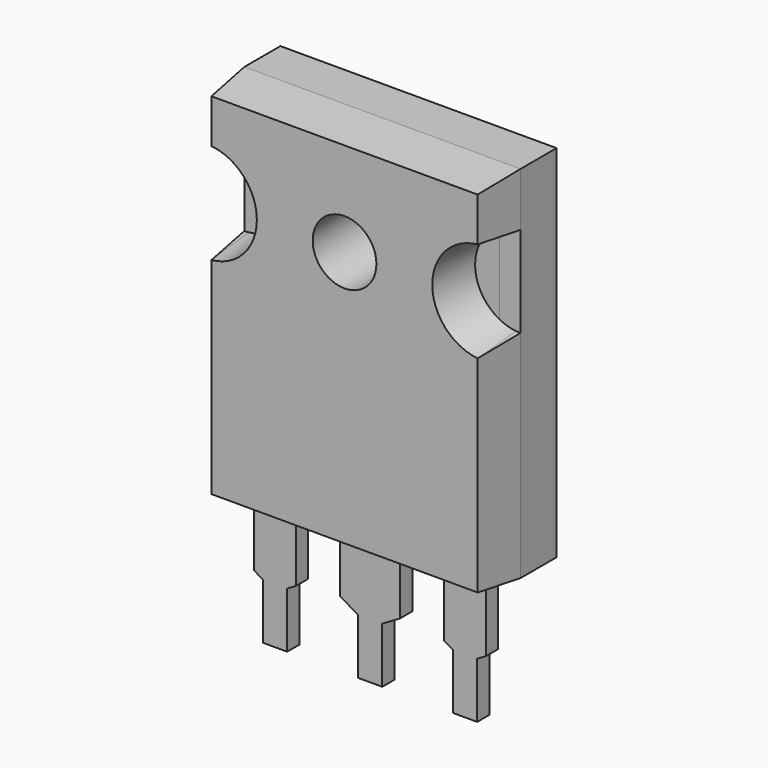
from build123d import *

# Parameters (mm, degrees)
F0_W      = 15.87
F0_H      = 20.7
F1_DEPTH  = 2.82
F2_SIZE2  = 0.2858835199
F2_SIZE   = 2.72
F3_DEPTH  = 2.49
F4_R      = 1.83
F5_DEPTH  = 5.31
F6_W      = 0.6149379784
F6_H      = 5.79
F7_DEPTH  = 2.72
F7_TAPER  = 6
F8_R      = 3.695
F9_DEPTH  = 2.59
F14_DEPTH = 0.445


with BuildPart() as f1:
    # F0 (on Front) → F1 (new body)
    with BuildSketch(Plane.XZ):
        Rectangle(F0_W, F0_H)
    extrude(amount=F1_DEPTH)

    # F2
    f2_edges = [f1.edges().sort_by_distance(p)[0] for p in [
        (0, -2.82, -10.35),
        (-7.935, -2.82, 0),
        (7.935, -2.82, 0),
        (0, -2.82, 10.35),
    ]]
    chamfer(f2_edges, length=F2_SIZE, length2=F2_SIZE2)

    # F0 (on Front) → F3 (join)
    with BuildSketch(Plane.XZ):
        Rectangle(F0_W, F0_H)
    extrude(amount=-F3_DEPTH)

    # F4 (on face) → F5 (cut)
    with BuildSketch(Plane.XZ.offset(2.82)):
        with Locations((0, 4.66)):
            Circle(F4_R)
    extrude(amount=-F5_DEPTH, mode=Mode.SUBTRACT)

    # F6 (on face) → F7 (cut)
    with BuildSketch(Plane.XZ.offset(2.82)):
        with BuildLine():
            Line((-7.6491164801, 7.5408498074), (-7.6491164801, 1.7791501926))
            ThreePointArc((-7.6491164801, 1.7791501926), (-5.04, 4.66), (-7.6491164801, 7.5408498074))
        make_face()
        with BuildLine():
            Line((-7.935, 4.66), (-7.935, 1.765))
            ThreePointArc((-7.935, 1.765), (-7.7918832514, 1.7685397121), (-7.6491164801, 1.7791501926))
            Line((-7.6491164801, 1.7791501926), (-7.6491164801, 7.5408498074))
            ThreePointArc((-7.6491164801, 7.5408498074), (-7.7918832514, 7.5514602879), (-7.935, 7.555))
            Line((-7.935, 7.555), (-7.935, 4.66))
        make_face()
        with BuildLine():
            Line((7.6491164801, 7.5408498074), (7.6491164801, 1.7791501926))
            ThreePointArc((7.6491164801, 1.7791501926), (7.7918832514, 1.7685397121), (7.935, 1.765))
            Line((7.935, 1.765), (7.935, 7.555))
            ThreePointArc((7.935, 7.555), (7.7918832514, 7.5514602879), (7.6491164801, 7.5408498074))
        make_face()
        with BuildLine():
            ThreePointArc((7.6491164801, 7.5408498074), (5.04, 4.66), (7.6491164801, 1.7791501926))
            Line((7.6491164801, 1.7791501926), (7.6491164801, 7.5408498074))
        make_face()
        Polygon((-8.4170803885, 1.765), (-7.935, 1.765), (-7.935, 4.66), (-7.935, 7.555), (-8.4170803885, 7.555), align=None)
        with Locations((8.2424689892, 4.66)):
            Rectangle(F6_W, F6_H)
    extrude(amount=-F7_DEPTH, taper=F7_TAPER, mode=Mode.SUBTRACT)


with BuildPart() as f9:
    # F8 (on face) → F9 (new body)
    with BuildSketch(Plane(origin=(0, 2.49, 0), x_dir=(-1, 0, 0), z_dir=(0, 1, 0))):
        with BuildLine():
            Line((-6.73, -3.24), (0, -3.24))
            Line((0, -3.24), (6.73, -3.24))
            Line((6.73, -3.24), (6.73, 9.1436058283))
            ThreePointArc((6.73, 9.1436058283), (6.5512085776, 9.575246505), (6.1195679009, 9.7540379274))
            Line((6.1195679009, 9.7540379274), (3.0516034342, 9.7540379274))
            Line((3.0516034342, 9.7540379274), (3.006798841, 9.84))
            Line((3.006798841, 9.84), (0, 9.84))
            Line((0, 9.84), (-3.006798841, 9.84))
            Line((-3.006798841, 9.84), (-3.0516034342, 9.7540379274))
            Line((-3.0516034342, 9.7540379274), (-6.1195679009, 9.7540379274))
            ThreePointArc((-6.1195679009, 9.7540379274), (-6.5512085776, 9.575246505), (-6.73, 9.1436058283))
            Line((-6.73, 9.1436058283), (-6.73, -3.24))
        make_face()
        with Locations((0, 4.66)):
            Circle(F8_R, mode=Mode.SUBTRACT)
    extrude(amount=-F9_DEPTH)


with BuildPart() as f1_1:
    add(f1.part)

    # F10: cut F9
    add(f9.part, mode=Mode.SUBTRACT)


with BuildPart() as f14:
    # F12 (on Front) → F14 (new body, symmetric)
    with BuildSketch(Plane.XZ):
        Polygon((-4.265, -9.94), (-5.46, -9.94), (-6.655, -9.94), (-6.655, -14.3542116168), (-6.16, -14.64), (-6.16, -17.84), (-5.46, -17.84), (-4.76, -17.84), (-4.76, -14.64), (-4.265, -14.3542116168), align=None)
    extrude(amount=F14_DEPTH, both=True)


with BuildPart() as f14b:
    # F12 (on Front) → F14, piece 2 (new body, symmetric)
    with BuildSketch(Plane.XZ):
        Polygon((1.715, -9.94), (0, -9.94), (-1.715, -9.94), (-1.715, -14.0539894768), (-0.7, -14.64), (-0.7, -17.84), (0, -17.84), (0.7, -17.84), (0.7, -14.64), (1.715, -14.0539894768), align=None)
    extrude(amount=F14_DEPTH, both=True)


with BuildPart() as f14c:
    # F12 (on Front) → F14, piece 3 (new body, symmetric)
    with BuildSketch(Plane.XZ):
        Polygon((6.16, -14.64), (6.655, -14.3542116168), (6.655, -9.94), (5.46, -9.94), (4.265, -9.94), (4.265, -14.3542116168), (4.76, -14.64), (4.76, -17.84), (5.46, -17.84), (6.16, -17.84), align=None)
    extrude(amount=F14_DEPTH, both=True)


with BuildPart() as f14_1:
    # F15: moved
    add(f14.part.moved(Location((0, -0.545, 0))))


with BuildPart() as f14b_1:
    # F15: moved
    add(f14b.part.moved(Location((0, -0.545, 0))))


with BuildPart() as f14c_1:
    # F15: moved
    add(f14c.part.moved(Location((0, -0.545, 0))))


with BuildPart() as f1_2:
    add(f1_1.part)

    # F16: cut F14, F14b, F14c
    add(f14_1.part, mode=Mode.SUBTRACT)
    add(f14b_1.part, mode=Mode.SUBTRACT)
    add(f14c_1.part, mode=Mode.SUBTRACT)


with BuildPart() as f14_2:
    # F17: moved
    add(f14_1.part.moved(Location((0, 0.545, 14.64))))


with BuildPart() as f1_3:
    # F17: moved
    add(f1_2.part.moved(Location((0, 0.545, 14.64))))


with BuildPart() as f14b_2:
    # F17: moved
    add(f14b_1.part.moved(Location((0, 0.545, 14.64))))


with BuildPart() as f14c_2:
    # F17: moved
    add(f14c_1.part.moved(Location((0, 0.545, 14.64))))


with BuildPart() as f9_1:
    # F17: moved
    add(f9.part.moved(Location((0, 0.545, 14.64))))


solid = Compound([f14_2.part, f1_3.part, f14b_2.part, f14c_2.part, f9_1.part])
